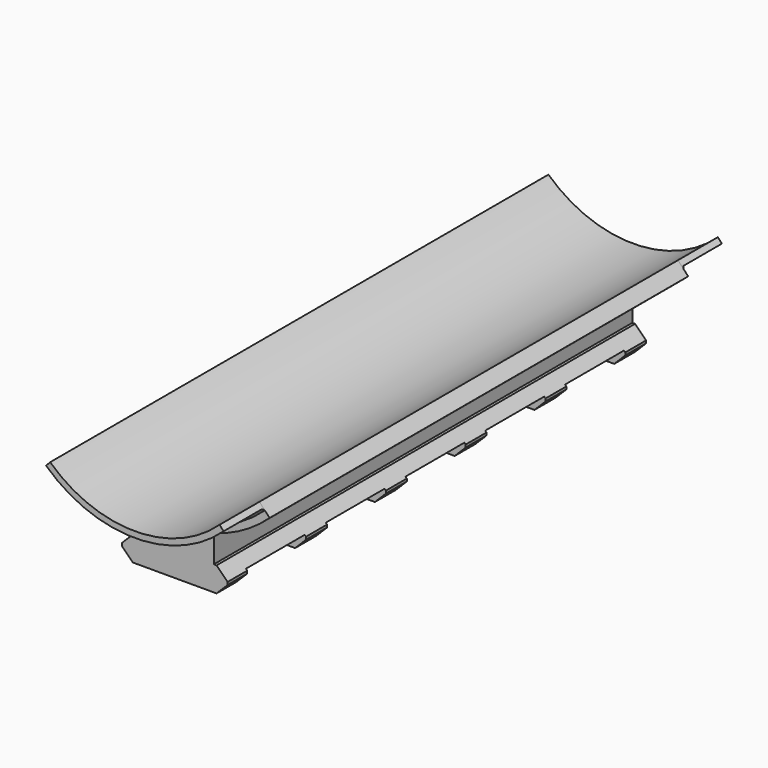
from build123d import *

# Parameters (mm, degrees)
F1_DEPTH      = 105
F3_DEPTH      = 10
F3_DEPTH_BACK = 115
F4_W          = 14.7828
F4_H          = 2.9972
F5_DEPTH      = 12.5
F6_SIZE       = 0.4


with BuildPart() as f1:
    # F0 (on Front) → F1 (new body)
    with BuildSketch(Plane.XZ):
        with BuildLine():
            ThreePointArc((17, 0), (0, -6.6696972202), (-17, 0))
            Line((-17, 0), (-19.04, -2.1996363336))
            ThreePointArc((-19.04, -2.1996363336), (-13.8080814962, -6.0282046743), (-7.8359, -8.5508927142))
            ThreePointArc((-7.8359, -8.5508927142), (0, -9.6696972202), (7.8359, -8.5508927142))
            ThreePointArc((7.8359, -8.5508927142), (13.8080814962, -6.0282046743), (19.04, -2.1996363336))
            Line((19.04, -2.1996363336), (17, 0))
        make_face()
        with BuildLine():
            ThreePointArc((7.8359, -8.5508927142), (0, -9.6696972202), (-7.8359, -8.5508927142))
            Line((-7.8359, -8.5508927142), (-7.8359, -14.0384971209))
            Line((-7.8359, -14.0384971209), (7.8359, -14.0384971209))
            Line((7.8359, -14.0384971209), (7.8359, -8.5508927142))
        make_face()
        Polygon((7.8359, -14.0384971209), (-7.8359, -14.0384971209), (-8.3947000496, -14.0384971209), (-10.6045000496, -16.2482972202), (-10.6045000496, -16.7816972202), (-8.3946999504, -18.9914972202), (8.3946999504, -18.9914972202), (10.6044999504, -16.7816971209), (10.6044999504, -16.2482971209), (8.3946998511, -14.0384971209), align=None)
    extrude(amount=F1_DEPTH)

    # F2 (on face) → F3 (join, two sides)
    with BuildSketch(Plane(origin=(0, 0, 0), x_dir=(-1, 0, 0), z_dir=(0, 1, 0))) as f3_sk:
        with BuildLine():
            Line((17.816, -0.8798545334), (17, 0))
            ThreePointArc((17, 0), (0, -6.6696972202), (-17, 0))
            Line((-17, 0), (-17.816, -0.8798545334))
            ThreePointArc((-17.816, -0.8798545334), (0, -7.8696972202), (17.816, -0.8798545334))
        make_face()
    extrude(amount=F3_DEPTH)
    extrude(f3_sk.sketch, amount=-F3_DEPTH_BACK)

    # F4 (on Right) → F5 (cut, symmetric)
    with BuildSketch(Plane.YZ):
        with Locations((-12.6238, -17.4928972202)):
            Rectangle(F4_W, F4_H)
        with Locations((-32.6388, -17.4928972202)):
            Rectangle(F4_W, F4_H)
        with Locations((-52.6538, -17.4928972202)):
            Rectangle(F4_W, F4_H)
        with Locations((-72.6688, -17.4928972202)):
            Rectangle(F4_W, F4_H)
        with Locations((-92.6838, -17.4928972202)):
            Rectangle(F4_W, F4_H)
        with Locations((-112.6988, -17.4928972202)):
            Rectangle(F4_W, F4_H)
    extrude(amount=F5_DEPTH, both=True, mode=Mode.SUBTRACT)

    # F6
    f6_edges = [f1.edges().sort_by_distance(p)[0] for p in [
        (0, 0, -7.869697),
        (0, -105, -7.869697),
    ]]
    chamfer(f6_edges, length=F6_SIZE)


solid = f1.part
